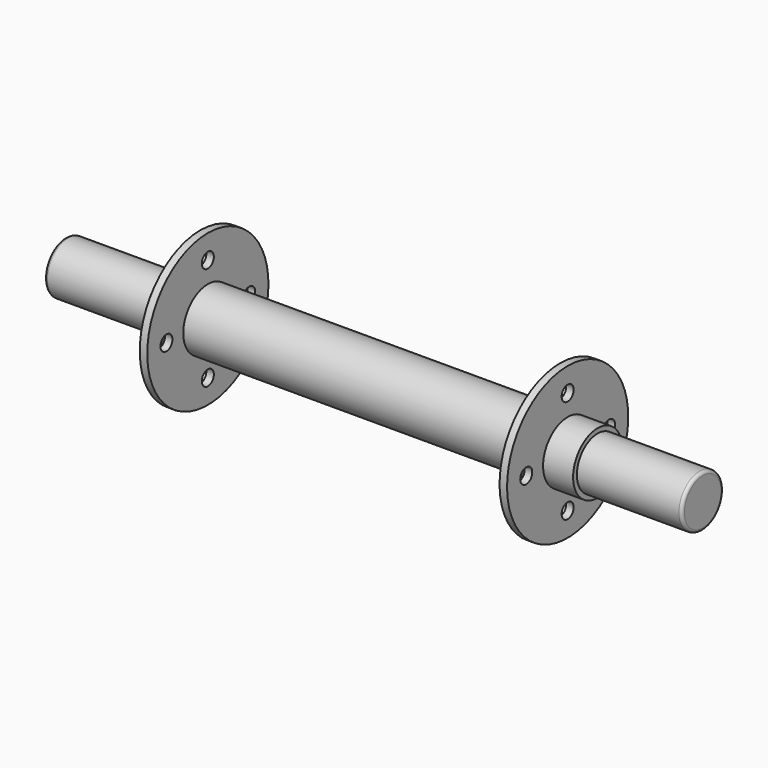
from build123d import *

# Parameters (mm, degrees)
F6_R     = 3.175
F7_DEPTH = 177.8


with BuildPart() as f1:
    # F0 (on Front) → F1 (revolve)
    with BuildSketch(Plane.XZ):
        with BuildLine():
            Line((-134.874, 9.73), (-134.874, 0))
            Line((-134.874, 0), (134.874, 0))
            Line((134.874, 0), (134.874, 9.73))
            ThreePointArc((134.874, 9.73), (134.502026, 10.628026), (133.604, 11))
            Line((133.604, 11), (90.424, 11))
            Line((90.424, 11), (90.424, 13))
            Line((90.424, 13), (77.724, 13))
            Line((77.724, 13), (77.724, 32.05))
            Line((77.724, 32.05), (74.549, 32.05))
            Line((74.549, 32.05), (74.549, 13))
            Line((74.549, 13), (-74.549, 13))
            Line((-74.549, 13), (-74.549, 32.05))
            Line((-74.549, 32.05), (-77.724, 32.05))
            Line((-77.724, 32.05), (-77.724, 13))
            Line((-77.724, 13), (-90.424, 13))
            Line((-90.424, 13), (-90.424, 11))
            Line((-90.424, 11), (-133.604, 11))
            ThreePointArc((-133.604, 11), (-134.502026, 10.628026), (-134.874, 9.73))
        make_face()
    revolve(axis=Axis((-8.171387, 0, 0), (1, 0, 0)))


with BuildPart() as f2_1:
    # F2: copy of F1
    add(f1.part)


with BuildPart() as f4_1:
    # F4: copy of F2_1
    add(f2_1.part)

    # F6 (on face) → F7 (cut)
    with BuildSketch(Plane(origin=(-77.724, 0, 0), x_dir=(0, -1, 0), z_dir=(-1, 0, 0))):
        with Locations((0, 21.9075)):
            Circle(F6_R)
        with Locations((-21.9075, 0)):
            Circle(F6_R)
        with Locations((0, -21.9075)):
            Circle(F6_R)
        with Locations((21.9075, 0)):
            Circle(F6_R)
    extrude(amount=-F7_DEPTH, mode=Mode.SUBTRACT)


solid = f4_1.part
